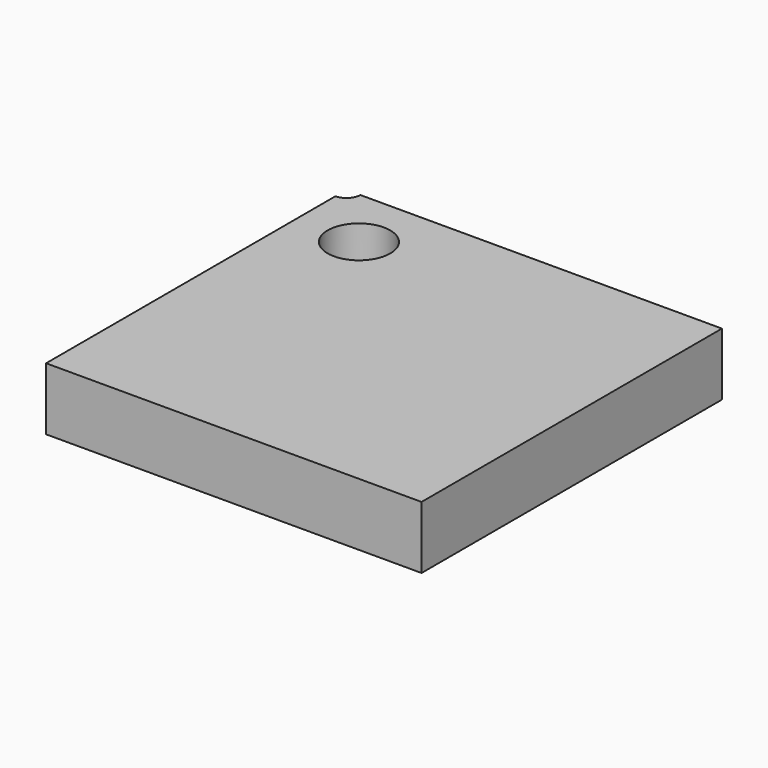
from build123d import *

# Parameters (mm, degrees)
F0_R     = 2.5
F1_DEPTH = 5


with BuildPart() as f1:
    # F0 (on Top) → F1 (new body)
    with BuildSketch(Plane.XY):
        with BuildLine():
            Line((30, 0), (1.105773, 0))
            ThreePointArc((1.105773, 0), (0.7819, -0.7819), (0, -1.105773))
            Line((0, -1.105773), (0, -30))
            Line((0, -30), (30, -30))
            Line((30, -30), (30, 0))
        make_face()
        with Locations((5, -5)):
            Circle(F0_R, mode=Mode.SUBTRACT)
    extrude(amount=F1_DEPTH)


solid = f1.part
